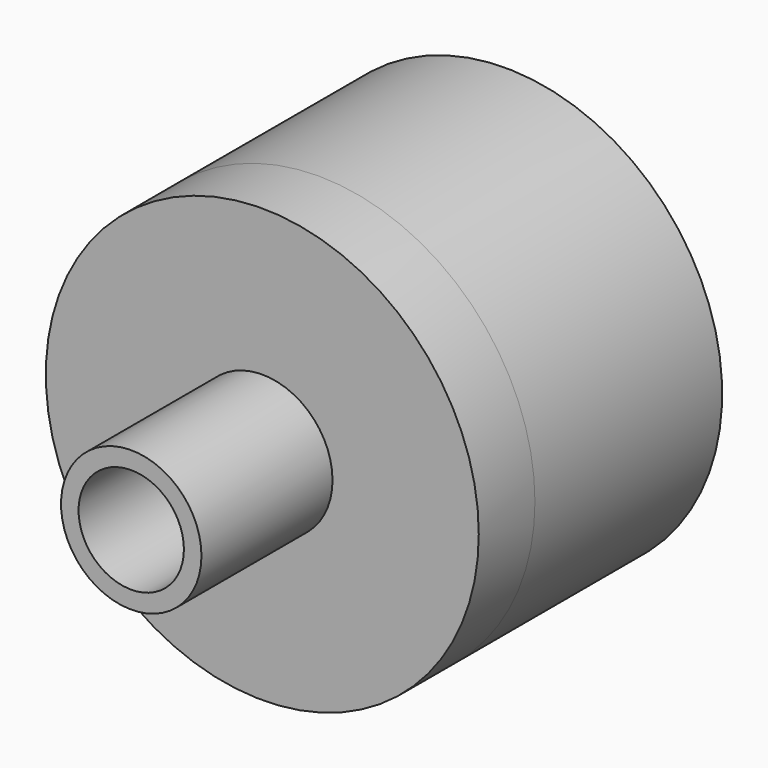
from build123d import *

# Parameters (mm, degrees)
F0_R     = 3
F0_R_2   = 2.25
F1_DEPTH = 10
F2_R     = 9.25
F2_R_2   = 3
F3_DEPTH = 3
F4_R     = 9.25
F4_R_2   = 8.5
F5_DEPTH = 10


with BuildPart() as f1:
    # F0 (on Front) → F1 (new body)
    with BuildSketch(Plane.XZ):
        Circle(F0_R)
        Circle(F0_R_2, mode=Mode.SUBTRACT)
    extrude(amount=F1_DEPTH)

    # F2 (on Front) → F3 (join)
    with BuildSketch(Plane.XZ):
        Circle(F2_R)
        Circle(F2_R_2, mode=Mode.SUBTRACT)
    extrude(amount=F3_DEPTH)

    # F4 (on face) → F5 (join)
    with BuildSketch(Plane(origin=(0, 0, 0), x_dir=(-1, 0, 0), z_dir=(0, 1, 0))):
        Circle(F4_R)
        Circle(F4_R_2, mode=Mode.SUBTRACT)
    extrude(amount=F5_DEPTH)


solid = f1.part
